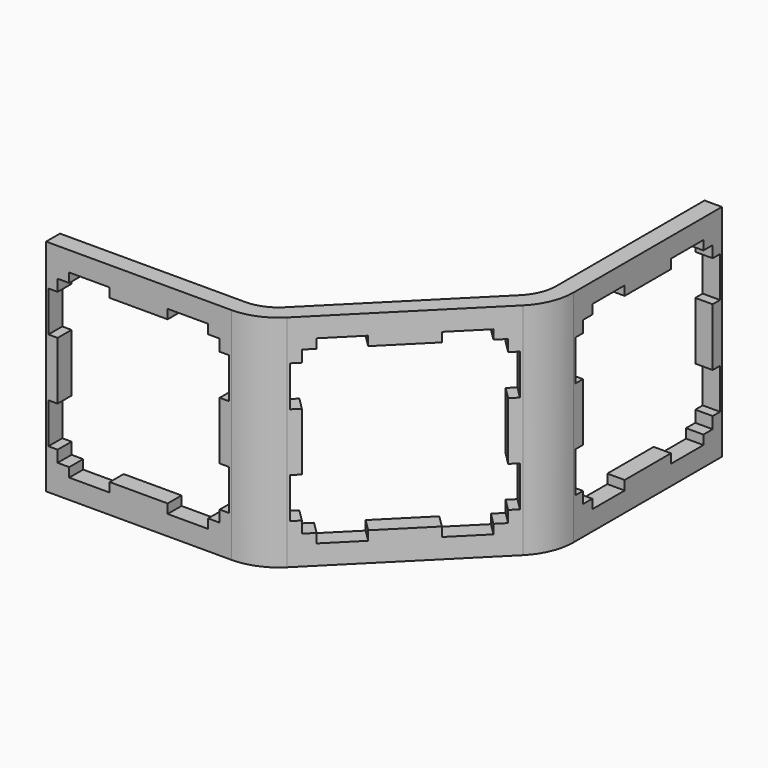
from build123d import *

# Parameters (mm, degrees)
PAD_DEPTH       = 19
POCKET_DEPTH    = 11.62232
POCKET002_DEPTH = 1.501
POCKET003_DEPTH = 1.501


with BuildPart() as part:
    # Sketch → Pad (new body)
    with BuildSketch(Plane.XY):
        with BuildLine():
            Line((0, 0), (16, 0))
            ThreePointArc((16, 0), (17.959845, 0.389838), (19.62132, 1.500001))
            Line((19.62132, 1.500001), (30.935023, 12.813715))
            ThreePointArc((30.935023, 12.813715), (32.045185, 14.475191), (32.435022, 16.435035))
            Line((32.435022, 32.435035), (32.435022, 16.435035))
            Line((30.935022, 32.435035), (32.435022, 32.435035))
            Line((30.935022, 16.435035), (30.935022, 32.435035))
            ThreePointArc((29.874363, 13.874375), (30.659366, 15.049216), (30.935022, 16.435035))
            Line((29.874363, 13.874375), (18.56066, 2.560661))
            ThreePointArc((16, 1.5), (17.385819, 1.775657), (18.56066, 2.560661))
            Line((16, 1.5), (0, 1.5))
            Line((0, 1.5), (0, 0))
        make_face()
    extrude(amount=PAD_DEPTH)

    # Sketch004 → Pocket (cut, through all)
    with BuildSketch(Plane(origin=(8.000009, -8.000001, 0), x_dir=(-0.707106, -0.707107, 0), z_dir=(-0.707107, 0.707106, 0))):
        Polygon((-28.935023, 17.3), (-25.435023, 17.3), (-25.435023, 16.5), (-20.435023, 16.5), (-20.435023, 17.3), (-16.935023, 17.3), (-16.935023, 16.5), (-15.935023, 16.5), (-15.935023, 15.5), (-15.135024, 15.5), (-15.135024, 12), (-15.935023, 12), (-15.935023, 7), (-15.135024, 7), (-15.135024, 3.5), (-15.935023, 3.5), (-15.935023, 2.5), (-16.935023, 2.5), (-16.935023, 1.7), (-20.435023, 1.7), (-20.435023, 2.5), (-25.435023, 2.5), (-25.435023, 1.7), (-28.935023, 1.7), (-28.935023, 2.5), (-29.935023, 2.5), (-29.935023, 3.5), (-30.735024, 3.5), (-30.735024, 7), (-29.935023, 7), (-29.935023, 12), (-30.735024, 12), (-30.735024, 15.5), (-29.935023, 15.5), (-29.935023, 16.5), (-28.935023, 16.5), align=None)
    extrude(amount=-POCKET_DEPTH, mode=Mode.SUBTRACT)

    # Sketch004001 → Pocket002 (cut, through all)
    with BuildSketch(Plane(origin=(30.935022, 0, 0), x_dir=(0, -1, 0), z_dir=(-1, 0, 0))):
        Polygon((-30.435035, 17.3), (-26.935035, 17.3), (-26.935035, 16.5), (-21.935035, 16.5), (-21.935035, 17.3), (-18.435035, 17.3), (-18.435035, 16.5), (-17.435035, 16.5), (-17.435035, 15.5), (-16.635036, 15.5), (-16.635036, 12), (-17.435035, 12), (-17.435035, 7), (-16.635036, 7), (-16.635036, 3.5), (-17.435035, 3.5), (-17.435035, 2.5), (-18.435035, 2.5), (-18.435035, 1.7), (-21.935035, 1.7), (-21.935035, 2.5), (-26.935035, 2.5), (-26.935035, 1.7), (-30.435035, 1.7), (-30.435035, 2.5), (-31.435035, 2.5), (-31.435035, 3.5), (-32.235036, 3.5), (-32.235036, 7), (-31.435035, 7), (-31.435035, 12), (-32.235036, 12), (-32.235036, 15.5), (-31.435035, 15.5), (-31.435035, 16.5), (-30.435035, 16.5), align=None)
    extrude(amount=-POCKET002_DEPTH, mode=Mode.SUBTRACT)

    # Sketch004001001 → Pocket003 (cut, through all)
    with BuildSketch(Plane(origin=(0, 1.5, 0), x_dir=(-1, 0, 0), z_dir=(0, 1, 0))):
        Polygon((-14, 17.3), (-10.5, 17.3), (-10.5, 16.5), (-5.5, 16.5), (-5.5, 17.3), (-2, 17.3), (-2, 16.5), (-1, 16.5), (-1, 15.5), (-0.200001, 15.5), (-0.200001, 12), (-1, 12), (-1, 7), (-0.200001, 7), (-0.200001, 3.5), (-1, 3.5), (-1, 2.5), (-2, 2.5), (-2, 1.7), (-5.5, 1.7), (-5.5, 2.5), (-10.5, 2.5), (-10.5, 1.7), (-14, 1.7), (-14, 2.5), (-15, 2.5), (-15, 3.5), (-15.800001, 3.5), (-15.800001, 7), (-15, 7), (-15, 12), (-15.800001, 12), (-15.800001, 15.5), (-15, 15.5), (-15, 16.5), (-14, 16.5), align=None)
    extrude(amount=-POCKET003_DEPTH, mode=Mode.SUBTRACT)


with BuildPart() as part_1:
    # Clone placement: moved
    add(part.part.moved(Location((2.38, -2.38, 19))))


with BuildPart() as part_2:
    # Clone001 placement: moved
    add(part_1.part.moved(Location((4.75, 4.76, 19))))


with BuildPart() as part_3:
    # Clone002 placement: moved
    add(part_2.part.moved(Location((-2.38, -2.38, 19))))


with BuildPart() as part_4:
    # Clone003 placement: moved
    add(part_3.part.moved(Location((-4.75, -2.38, 19))))


solid = part_4.part
